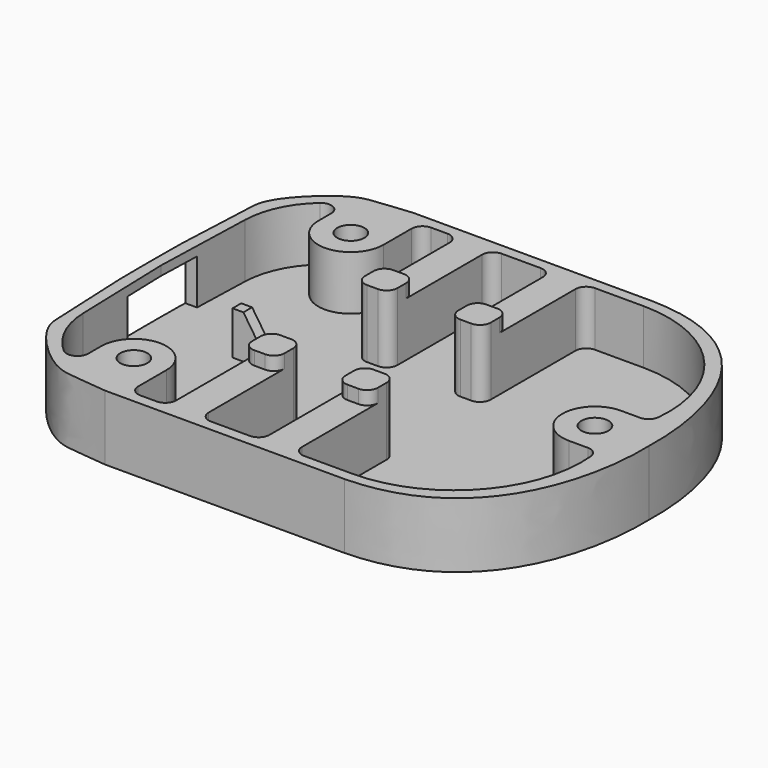
from build123d import *

# Parameters (mm, degrees)
PAD002_DEPTH    = 12
SKETCH017_R     = 2.5
POCKET014_DEPTH = 10
POCKET015_DEPTH = 1
SKETCH019_W     = 8
SKETCH019_H     = 8.3
POCKET016_DEPTH = 5
PAD003_DEPTH    = 2.5


with BuildPart() as part:
    # Sketch016 → Pad002 (new body)
    with BuildSketch(Plane.XY):
        with BuildLine():
            ThreePointArc((0, 0), (0.0125001507, 3.6000868045), (0.05, 7.2))
            Line((0.05, 7.2), (0.75, 22.55))
            add(Edge.make_bspline(
                [(0.75, 22.55), (0.790433, 24.50555), (2.8995135699, 28.3383927733), (10.6468681476, 35.231617337), (14.5053016695, 34.8194742751), (20.1, 35.5)],
                knots=[0, 0, 0, 0, 0.3333333333, 0.6666666667, 1, 1, 1, 1], degree=3))
            Line((20.1, 35.5), (64.2, 35.5))
            add(Edge.make_bspline(
                [(92, 0), (92.391037, 11.810127), (88.126587, 35.076866), (64.2, 35.5)],
                knots=[0, 0, 0, 0, 1, 1, 1, 1], degree=3))
            Line((92, 0), (0, 0))
        make_face()
    extrude(amount=PAD002_DEPTH)

    # Sketch017 (on Face8 of Pad002) → Pocket014 (cut)
    with BuildSketch(Plane.XY.offset(12)):
        with Locations((17, 25)):
            Circle(SKETCH017_R)
        with BuildLine():
            ThreePointArc((84.5, 0), (82, 2.5), (79.5, 0))
            Line((79.5, 0), (84.5, 0))
        make_face()
        with BuildLine():
            Line((2, 0), (2.5758571429, 18.6857169977))
            ThreePointArc((7.6817324497, 29.5040514173), (4.0036624605, 24.625907301), (2.5758571429, 18.6857169977))
            ThreePointArc((11, 28), (9.8256709089, 29.8216112511), (7.6817324497, 29.5040514173))
            Line((11, 25), (11, 28))
            ThreePointArc((11, 25), (17, 19), (23, 25))
            Line((23, 25), (23, 31.5))
            ThreePointArc((25, 33.5), (23.5857864376, 32.9142135624), (23, 31.5))
            Line((28, 33.5), (25, 33.5))
            ThreePointArc((30, 31.5), (29.4142135624, 32.9142135624), (28, 33.5))
            Line((30, 12), (30, 31.5))
            ThreePointArc((30, 12), (30.5857864376, 10.5857864376), (32, 10))
            Line((34, 10), (32, 10))
            ThreePointArc((34, 10), (35.4142135624, 10.5857864376), (36, 12))
            Line((36, 31.5), (36, 12))
            ThreePointArc((38, 33.5), (36.5857864376, 32.9142135624), (36, 31.5))
            Line((45.2, 33.5), (38, 33.5))
            ThreePointArc((47.2, 31.5), (46.6142135624, 32.9142135624), (45.2, 33.5))
            Line((47.2, 12), (47.2, 31.5))
            ThreePointArc((47.2, 12), (47.7857864376, 10.5857864376), (49.2, 10))
            Line((51.2, 10), (49.2, 10))
            ThreePointArc((51.2, 10), (52.6142135624, 10.5857864376), (53.2, 12))
            Line((53.2, 31.4999999999), (53.2, 12))
            ThreePointArc((55.2, 33.4999999999), (53.7857864376, 32.9142135623), (53.2, 31.4999999999))
            Line((55.2, 33.5), (64.2, 33.5))
            ThreePointArc((87.491325765, 7.8139309331), (81.5019467421, 25.7859071373), (64.2, 33.5))
            ThreePointArc((85.5, 6), (86.8468225322, 6.521463877), (87.491325765, 7.8139309331))
            Line((82, 6), (85.5, 6))
            ThreePointArc((82, 6), (77.7573593129, 4.2426406871), (76, 0))
            Line((22, 0), (76, 0))
            Line((22, 1), (22, 0))
            Line((16, 1), (22, 1))
            Line((16, 0), (16, 1))
            Line((2, 0), (16, 0))
        make_face()
    extrude(amount=-POCKET014_DEPTH, mode=Mode.SUBTRACT)

    # Sketch018 (on Face3 of Pocket014) → Pocket015 (cut)
    with BuildSketch(Plane.XZ):
        Polygon((22, 12), (22, 4), (18, 10), (16, 10), (16, 12), align=None)
    extrude(amount=-POCKET015_DEPTH, mode=Mode.SUBTRACT)

    # Sketch019 → Pocket016 (cut)
    with BuildSketch(Plane.YZ):
        with Locations((4, 6.15)):
            Rectangle(SKETCH019_W, SKETCH019_H)
    extrude(amount=POCKET016_DEPTH, mode=Mode.SUBTRACT)

    # Sketch022 (on Face8 of Pocket016) → Pad003 (join)
    with BuildSketch(Plane.XY.offset(12)):
        with BuildLine():
            ThreePointArc((34, 10), (35.4142135624, 10.5857864376), (36, 12))
            Line((36, 12), (36, 14))
            ThreePointArc((36, 14), (35.4142135624, 15.4142135624), (34, 16))
            Line((32, 16), (34, 16))
            ThreePointArc((32, 16), (30.5857864376, 15.4142135624), (30, 14))
            Line((30, 12), (30, 14))
            ThreePointArc((30, 12), (30.5857864376, 10.5857864376), (32, 10))
            Line((32, 10), (34, 10))
        make_face()
        with BuildLine():
            ThreePointArc((47.2, 12), (47.7857864376, 10.5857864376), (49.2, 10))
            Line((49.2, 10), (51.2, 10))
            ThreePointArc((51.2, 10), (52.6142135624, 10.5857864376), (53.2, 12))
            Line((53.2, 12), (53.2, 14))
            ThreePointArc((53.2, 14), (52.6142135624, 15.4142135624), (51.2, 16))
            Line((49.2, 16), (51.2, 16))
            ThreePointArc((49.2, 16), (47.7857864376, 15.4142135624), (47.2, 14))
            Line((47.2, 12), (47.2, 14))
        make_face()
    extrude(amount=PAD003_DEPTH)

    # Mirrored001: part across XZ


with BuildPart() as part_1:
    add(part.part)
    add(part.part.mirror(Plane.XZ))


with BuildPart() as part_2:
    # Body002 placement: moved
    add(part_1.part.moved(Location((0, 0, -12))))


solid = part_2.part
